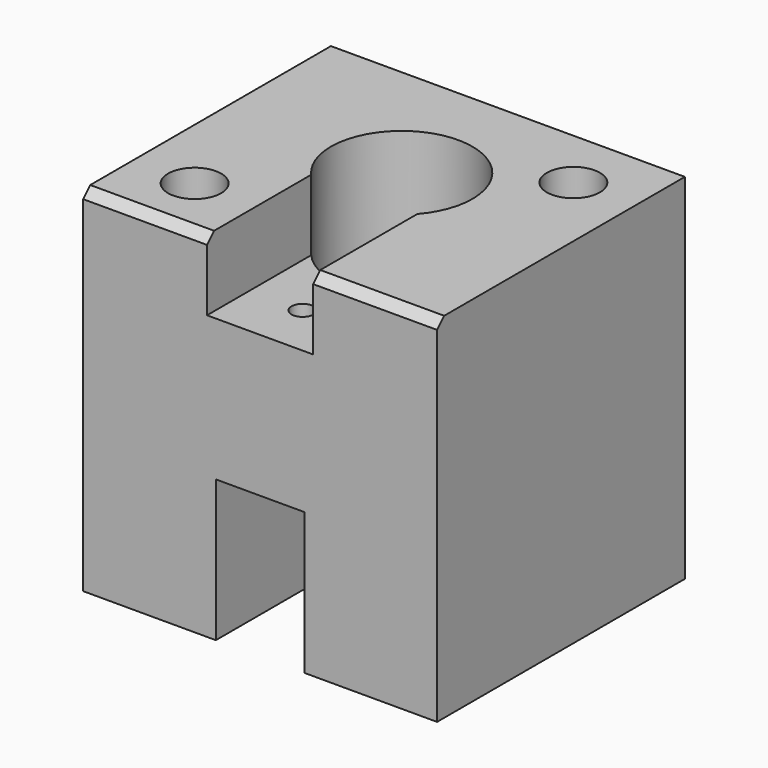
from build123d import *

# Parameters (mm, degrees)
F0_W      = 40
F0_H      = 35
F1_DEPTH  = 40
F2_SIZE   = 1
F5_D      = 16
F6_W      = 12
F6_H      = 8
F7_DEPTH  = 25
F8_W      = 10
F8_H      = 16
F9_DEPTH  = 13.7560020016
F11_D     = 6
F11_DEPTH = 20
F11_TIP   = 1.8025818571
F13_D     = 3.4
F13_DEPTH = 16
F13_TIP   = 1.0214630523
F15_D     = 5
F15_DEPTH = 21
F15_TIP   = 1.5021515476
F17_D     = 2.5
F17_DEPTH = 15.5
F17_TIP   = 0.7510757738


with BuildPart() as f1:
    # F0 (on Top) → F1 (new body)
    with BuildSketch(Plane.XY):
        Rectangle(F0_W, F0_H)
    extrude(amount=F1_DEPTH)

    # F2
    f2_edges = [f1.edges().sort_by_distance(p)[0] for p in [
        (0, -17.5, 40),
    ]]
    chamfer(f2_edges, length=F2_SIZE)

    # F5 (through all)
    with Locations(Plane.XY.offset(40)):
        with Locations((0, 2.5)):
            Hole(F5_D / 2)

    # F6 (on face) → F7 (cut)
    with BuildSketch(Plane.XZ.offset(17.5)):
        with Locations((0, 36)):
            Rectangle(F6_W, F6_H)
    extrude(amount=-F7_DEPTH, mode=Mode.SUBTRACT)

    # F8 (on face) → F9 (cut, through all)
    with BuildSketch(Plane.XZ.offset(17.5)):
        with Locations((0, 8)):
            Rectangle(F8_W, F8_H)
    extrude(amount=-F9_DEPTH, mode=Mode.SUBTRACT)

    # F11
    with Locations(Plane.XY.offset(40)):
        with Locations((13, 10.5), (-13, -10.5)):
            Hole(F11_D / 2, depth=F11_DEPTH)
            with Locations((0, 0, -(F11_DEPTH + F11_TIP / 2))):  # 118° drill point
                Cone(0, F11_D / 2, F11_TIP, mode=Mode.SUBTRACT)

    # F13
    with Locations(Plane(origin=(0, 0, 0), x_dir=(1, 0, 0), z_dir=(0, 0, -1))):
        with Locations((-13, -10.5), (13, 10.5)):
            Hole(F13_D / 2, depth=F13_DEPTH)
            with Locations((0, 0, -(F13_DEPTH + F13_TIP / 2))):  # 118° drill point
                Cone(0, F13_D / 2, F13_TIP, mode=Mode.SUBTRACT)

    # F15
    with Locations(Plane(origin=(0, 0, 0), x_dir=(1, 0, 0), z_dir=(0, 0, -1))):
        with Locations((-13, 10.5), (13, -10.5)):
            Hole(F15_D / 2, depth=F15_DEPTH)
            with Locations((0, 0, -(F15_DEPTH + F15_TIP / 2))):  # 118° drill point
                Cone(0, F15_D / 2, F15_TIP, mode=Mode.SUBTRACT)

    # F17
    with Locations(Plane.XY.offset(32)):
        with Locations((0, -11.5)):
            Hole(F17_D / 2, depth=F17_DEPTH)
            with Locations((0, 0, -(F17_DEPTH + F17_TIP / 2))):  # 118° drill point
                Cone(0, F17_D / 2, F17_TIP, mode=Mode.SUBTRACT)


solid = f1.part
